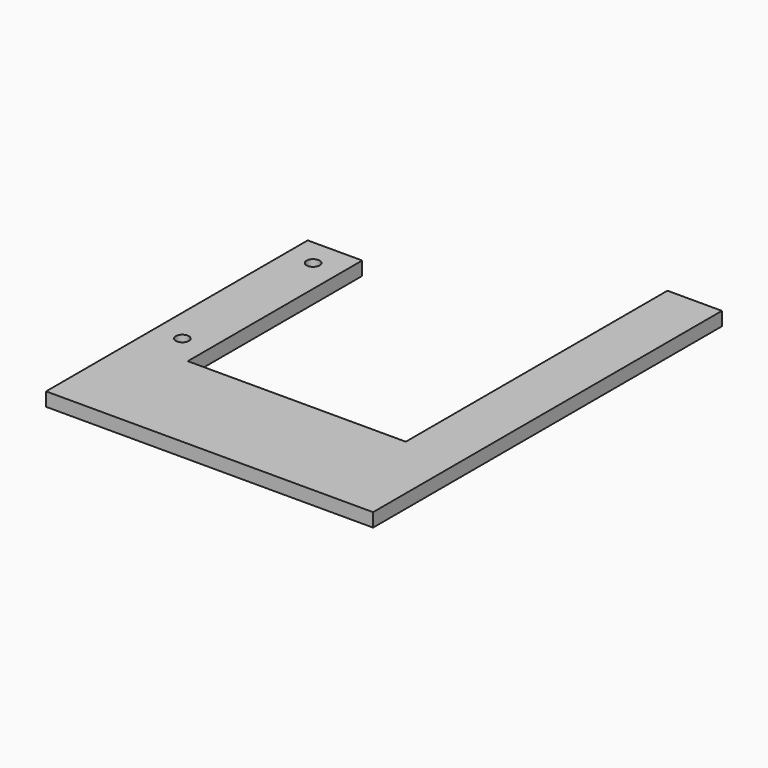
from build123d import *

# Parameters (mm, degrees)
F0_W     = 50.8
F0_H     = 25.4
F0_R     = 1.524
F1_DEPTH = 3.175


with BuildPart() as f1:
    # F0 (on Top) → F1 (new body)
    with BuildSketch(Plane.XY):
        Rectangle(F0_W, F0_H)
        Polygon((-25.4, -12.7), (-25.4, 12.7), (-25.4, 63.5), (-38.1, 63.5), (-38.1, -12.7), align=None)
        with Locations((-31.75, 19.05)):
            Circle(F0_R, mode=Mode.SUBTRACT)
        with Locations((-31.75, 57.15)):
            Circle(F0_R, mode=Mode.SUBTRACT)
        Polygon((25.4, 88.9), (25.4, 12.7), (25.4, -12.7), (38.1, -12.7), (38.1, 88.9), align=None)
    extrude(amount=F1_DEPTH)


solid = f1.part
